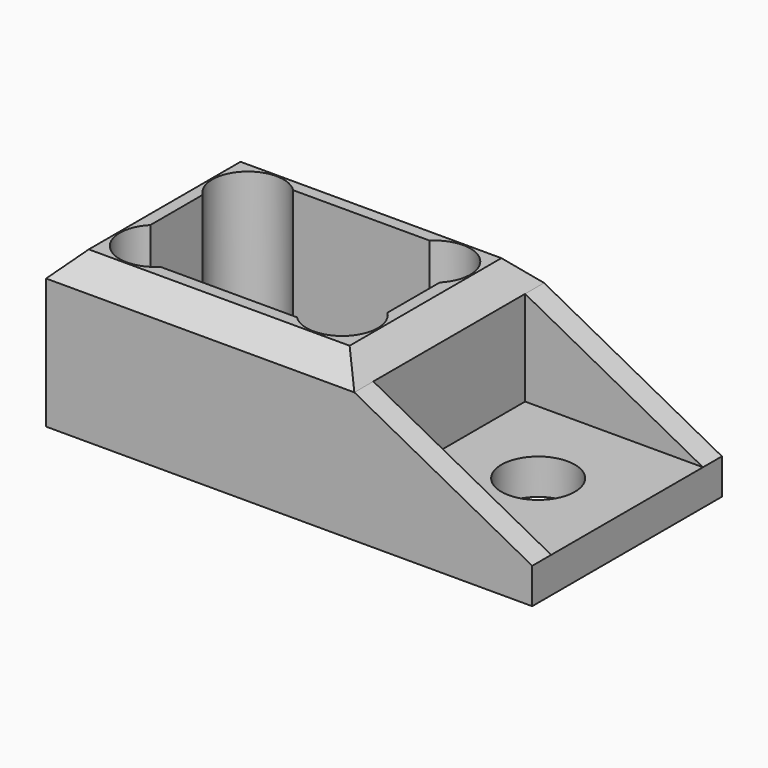
from build123d import *

# Parameters (mm, degrees)
F0_R     = 3.1
F1_DEPTH = 3
F2_W     = 26
F2_H     = 20
F3_DEPTH = 10
F4_SIZE  = 2
F6_DEPTH = 2
F8_DEPTH = 2


with BuildPart() as f1:
    # F0 (on Top) → F1 (new body)
    with BuildSketch(Plane.XY):
        Polygon((-13, -10), (13, -10), (28, -10), (28, 10), (13, 10), (-13, 10), align=None)
        Circle(F0_R, mode=Mode.SUBTRACT)
        with Locations((20.5, 0)):
            Circle(F0_R, mode=Mode.SUBTRACT)
    extrude(amount=F1_DEPTH)

    # F2 (on face) → F3 (join)
    with BuildSketch(Plane.XY.offset(3)):
        Rectangle(F2_W, F2_H)
        with BuildLine():
            ThreePointArc((-10, 2.757359), (-10, 7), (-5.757359, 7))
            Line((-5.757359, 7), (5.757359, 7))
            ThreePointArc((5.757359, 7), (10, 7), (10, 2.757359))
            Line((10, 2.757359), (10, -2.757359))
            ThreePointArc((10, -2.757359), (10, -7), (5.757359, -7))
            Line((5.757359, -7), (-5.757359, -7))
            ThreePointArc((-5.757359, -7), (-10, -7), (-10, -2.757359))
            Line((-10, -2.757359), (-10, 2.757359))
        make_face(mode=Mode.SUBTRACT)
    extrude(amount=F3_DEPTH)

    # F4
    f4_edges = [f1.edges().sort_by_distance(p)[0] for p in [
        (0, -10, 13),
        (13, 0, 13),
        (0, 10, 13),
        (-13, 0, 13),
    ]]
    chamfer(f4_edges, length=F4_SIZE)

    # F5 (on face) → F6 (join)
    with BuildSketch(Plane.XZ.offset(10)):
        Polygon((28, 3), (13, 11), (13, 3), align=None)
    extrude(amount=-F6_DEPTH)

    # F7 (on face) → F8 (join)
    with BuildSketch(Plane(origin=(0, 10, 0), x_dir=(-1, 0, 0), z_dir=(0, 1, 0))):
        Polygon((-13, 3), (-13, 11), (-28, 3), align=None)
    extrude(amount=-F8_DEPTH)


solid = f1.part
